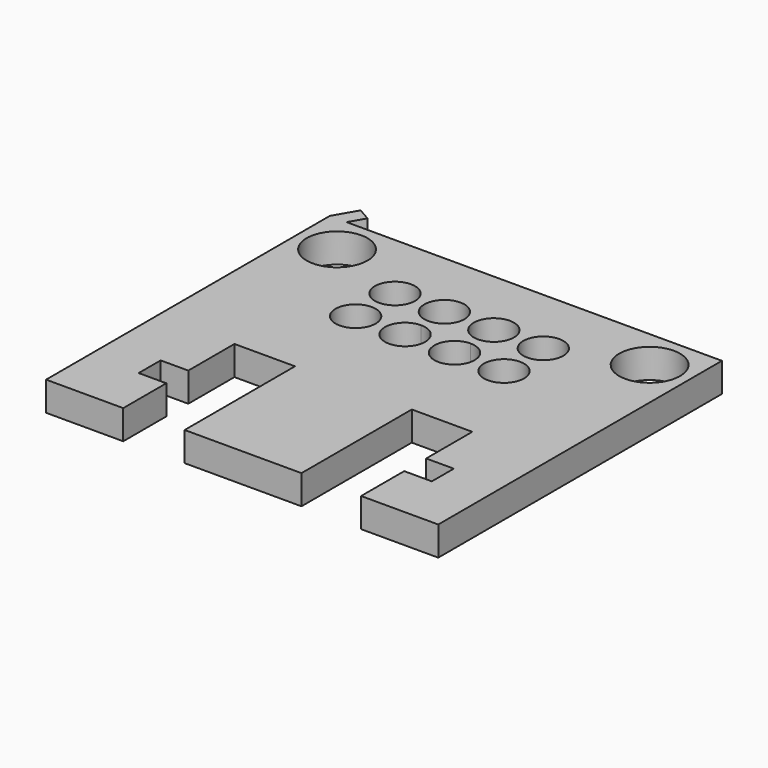
from build123d import *

# Parameters (mm, degrees)
F0_R     = 1.5875
F1_DEPTH = 1.524
F3_R     = 1.0471954036
F4_DEPTH = 1.525
F7_DEPTH = 1.524


with BuildPart() as f1:
    # F0 (on Top) → F1 (new body)
    with BuildSketch(Plane.XY):
        Polygon((12.3030065617, -0.1368533121), (2.0698180888, -0.1368533121), (2.0698180888, -18.6402630061), (6.0960869305, -18.6402630061), (6.0960869305, -15.829924494), (4.6535655856, -15.829924494), (4.6535655856, -14.3967131153), (6.0960869305, -14.3967131153), (6.0960869305, -11.3862287253), (9.2548192479, -11.3862287253), (9.2548192479, -18.5830555856), (12.3030065617, -18.5830555856), align=None)
        with Locations((4.1468967684, -2.2560383659)):
            Circle(F0_R, mode=Mode.SUBTRACT)
    extrude(amount=F1_DEPTH)

    # F2: F1 across face


with BuildPart() as f1_1:
    add(f1.part)
    add(f1.part.mirror(Plane(origin=(12.3030065617, -9.3599544489, 0.762), x_dir=(0, 1, 0), z_dir=(1, 0, 0))))

    # F3 (on face) → F4 (cut, through all)
    with BuildSketch(Plane(origin=(0, 0, 0), x_dir=(1, 0, 0), z_dir=(0, 0, -1))):
        with Locations((16.1656420678, 3.8247841876)):
            Circle(F3_R)
        with BuildLine():
            ThreePointArc((13.5849428674, 4.8719795912), (12.8444638963, 3.0843052165), (14.6321382709, 3.8247841876))
            ThreePointArc((14.6321382709, 3.8247841876), (14.3254218385, 4.5652631587), (13.5849428674, 4.8719795912))
        make_face()
        with BuildLine():
            ThreePointArc((14.6321382709, 6.3911853358), (12.8444638963, 7.1316643069), (13.5849428674, 5.3439899322))
            ThreePointArc((13.5849428674, 5.3439899322), (14.3254218385, 5.6507063647), (14.6321382709, 6.3911853358))
        make_face()
        with Locations((8.4235444665, 3.8247841876)):
            Circle(F3_R)
        with Locations((8.4235444665, 6.3911853358)):
            Circle(F3_R)
        with Locations((16.1656420678, 6.3911853358)):
            Circle(F3_R)
        with BuildLine():
            ThreePointArc((11.0042436669, 4.8719795912), (10.2637646958, 3.0843052165), (12.0514390705, 3.8247841876))
            ThreePointArc((12.0514390705, 3.8247841876), (11.744722638, 4.5652631587), (11.0042436669, 4.8719795912))
        make_face()
        with BuildLine():
            ThreePointArc((12.0514390705, 6.3911853358), (10.2637646958, 7.1316643069), (11.0042436669, 5.3439899322))
            ThreePointArc((11.0042436669, 5.3439899322), (11.744722638, 5.6507063647), (12.0514390705, 6.3911853358))
        make_face()
    extrude(amount=-F4_DEPTH, mode=Mode.SUBTRACT)

    # F6 (on face) → F7 (join, through all)
    with BuildSketch(Plane.XY.offset(1.524)):
        Polygon((2.7463897519, 1.0350031834), (2.0698180888, -0.1368533121), (2.949699899, -0.1368533121), (3.4063011096, 0.6540031834), align=None)
    extrude(amount=-F7_DEPTH)


solid = f1_1.part
